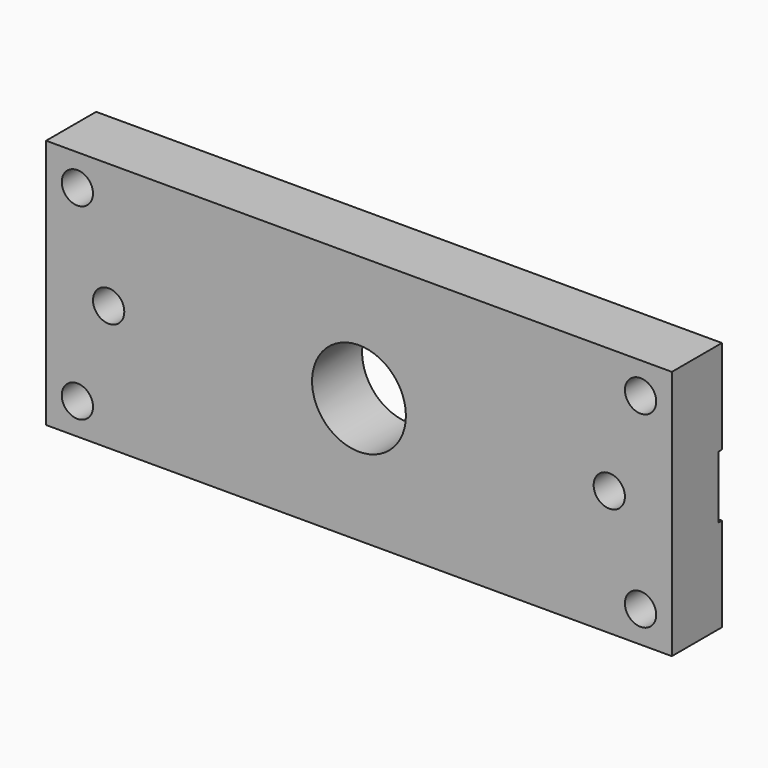
from build123d import *

# Parameters (mm, degrees)
F0_R     = 3.175
F0_W     = 38.1
F0_H     = 12.7
F1_DEPTH = 12.7
F2_DEPTH = 0.8128


with BuildPart() as f1:
    # F0 (on Front) → F1 (new body)
    with BuildSketch(Plane.XZ):
        with BuildLine():
            Line((63.5, 25.4), (-63.5, 25.4))
            Line((-63.5, 25.4), (-63.5, -25.4))
            Line((-63.5, -25.4), (63.5, -25.4))
            Line((63.5, -25.4), (63.5, -6.35))
            Line((63.5, -6.35), (25.4, -6.35))
            Line((25.4, -6.35), (7.099516, -6.35))
            ThreePointArc((7.099516, -6.35), (-9.525, 0), (7.099516, 6.35))
            Line((7.099516, 6.35), (25.4, 6.35))
            Line((25.4, 6.35), (63.5, 6.35))
            Line((63.5, 6.35), (63.5, 25.4))
        make_face()
        with Locations((-57.15, -19.05)):
            Circle(F0_R, mode=Mode.SUBTRACT)
        with Locations((-50.8, 0)):
            Circle(F0_R, mode=Mode.SUBTRACT)
        with Locations((57.15, -19.05)):
            Circle(F0_R, mode=Mode.SUBTRACT)
        with Locations((-57.15, 19.05)):
            Circle(F0_R, mode=Mode.SUBTRACT)
        with Locations((57.15, 19.05)):
            Circle(F0_R, mode=Mode.SUBTRACT)
        with Locations((44.45, 0)):
            Rectangle(F0_W, F0_H)
        with Locations((50.8, 0)):
            Circle(F0_R, mode=Mode.SUBTRACT)
        with BuildLine():
            Line((25.4, -6.35), (25.4, 6.35))
            Line((25.4, 6.35), (7.099516, 6.35))
            ThreePointArc((7.099516, 6.35), (8.897992, 3.39873), (9.525, 0))
            ThreePointArc((9.525, 0), (8.897992, -3.39873), (7.099516, -6.35))
            Line((7.099516, -6.35), (25.4, -6.35))
        make_face()
    extrude(amount=F1_DEPTH)

    # F0 (on Front) → F2 (cut)
    with BuildSketch(Plane.XZ):
        with Locations((44.45, 0)):
            Rectangle(F0_W, F0_H)
        with Locations((50.8, 0)):
            Circle(F0_R, mode=Mode.SUBTRACT)
    extrude(amount=F2_DEPTH, mode=Mode.SUBTRACT)


solid = f1.part
